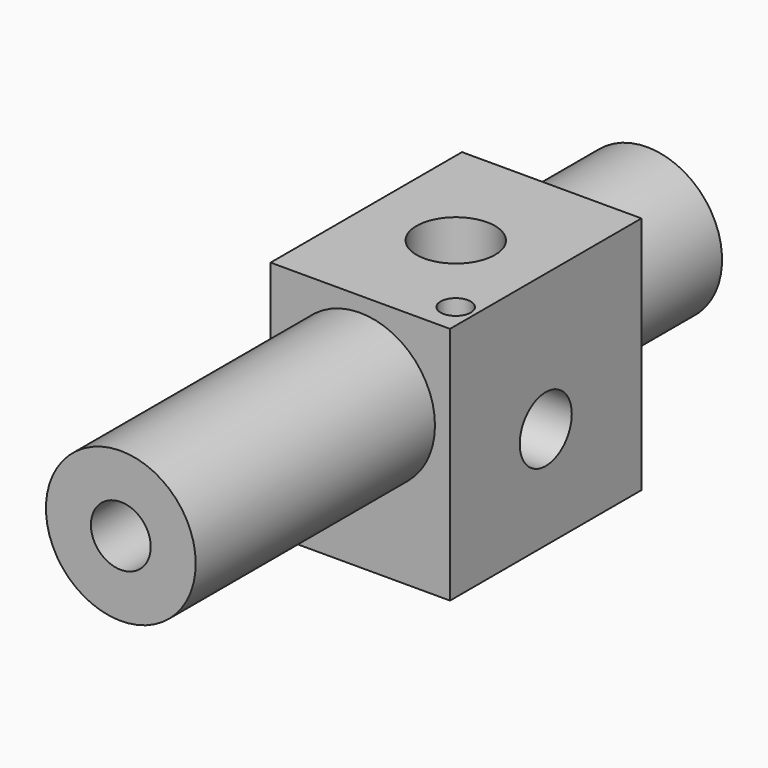
from build123d import *

# Parameters (mm, degrees)
F0_W      = 9.525
F0_H      = 12.7
F1_DEPTH  = 12.7
F2_R      = 3.9751
F3_DEPTH  = 15.875
F4_R      = 3.9751
F5_DEPTH  = 6.35
F6_R      = 1.5875
F7_DEPTH  = 34.926
F8_R      = 1.7272
F9_DEPTH  = 9.526
F10_R     = 2.0828
F11_DEPTH = 8.9916
F12_R     = 0.8001
F13_DEPTH = 6.35


with BuildPart() as f1:
    # F0 (on Front) → F1 (new body)
    with BuildSketch(Plane.XZ):
        with Locations((0.0127, 6.35)):
            Rectangle(F0_W, F0_H)
    extrude(amount=F1_DEPTH)

    # F2 (on face) → F3 (join)
    with BuildSketch(Plane.XZ.offset(12.7)):
        with Locations((0, 7.9248)):
            Circle(F2_R)
    extrude(amount=F3_DEPTH)

    # F4 (on face) → F5 (join)
    with BuildSketch(Plane(origin=(0, 0, 0), x_dir=(-1, 0, 0), z_dir=(0, 1, 0))):
        with Locations((0, 7.9248)):
            Circle(F4_R)
    extrude(amount=F5_DEPTH)

    # F6 (on face) → F7 (cut, through all)
    with BuildSketch(Plane(origin=(0, 6.35, 0), x_dir=(-1, 0, 0), z_dir=(0, 1, 0))):
        with Locations((0, 7.9248)):
            Circle(F6_R)
    extrude(amount=-F7_DEPTH, mode=Mode.SUBTRACT)

    # F8 (on face) → F9 (cut, through all)
    with BuildSketch(Plane.YZ.offset(4.7752)):
        with Locations((-6.35, 5.4356)):
            Circle(F8_R)
    extrude(amount=-F9_DEPTH, mode=Mode.SUBTRACT)

    # F10 (on face) → F11 (cut)
    with BuildSketch(Plane.XY.offset(12.7)):
        with Locations((0, -6.35)):
            Circle(F10_R)
    extrude(amount=-F11_DEPTH, mode=Mode.SUBTRACT)

    # F12 (on face) → F13 (cut)
    with BuildSketch(Plane.XY.offset(12.7)):
        with Locations((3.7338, -11.0236)):
            Circle(F12_R)
    extrude(amount=-F13_DEPTH, mode=Mode.SUBTRACT)

    # F15: sweep along a path in F15_path
    with BuildLine(Plane(origin=(-3.9751, 6.35, 7.9248), x_dir=(0, 0, -1), z_dir=(0, 1, 0))) as f15_path:
        CenterArc((0, -3.9751), 3.9751, 0, 360)
    # F14 (on Right) → F15 (sweep, cut)
    with BuildSketch(Plane.YZ):
        Polygon((6.3891997561, 7.9248), (6.3891997561, 10.8458), (3.8409422638, 9.3745628509), (3.8409422638, 7.9248), align=None)
    sweep(path=f15_path.line, mode=Mode.SUBTRACT)


solid = f1.part
